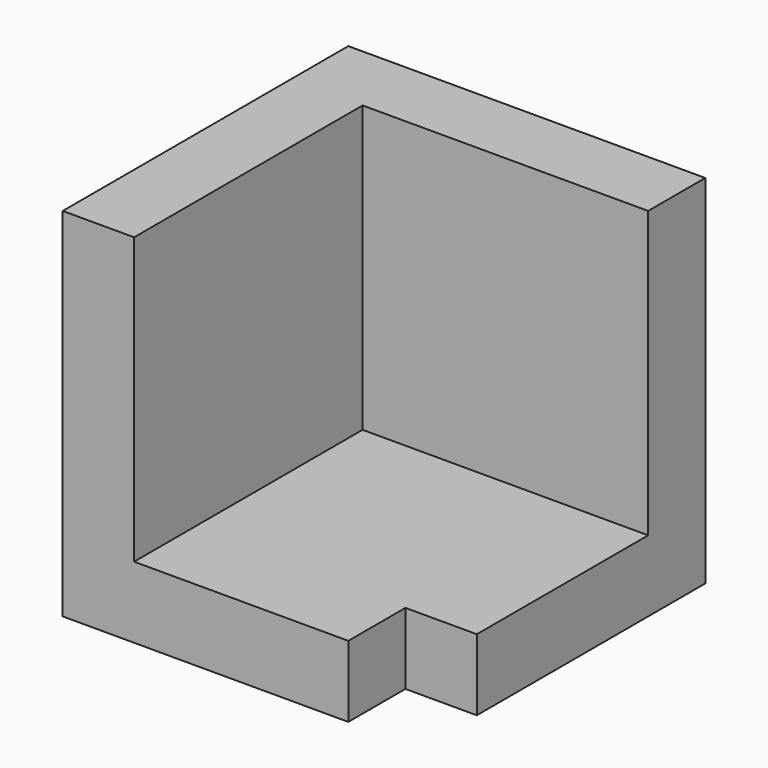
from build123d import *

# Parameters (mm, degrees)
F0_W     = 63.5
F0_H     = 63.5
F3_DEPTH = 12.7
F1_W     = 63.5
F1_H     = 63.5
F4_DEPTH = 12.7
F2_W     = 50.8
F2_H     = 50.8
F2_W_2   = 12.7
F2_H_2   = 12.7
F5_DEPTH = 12.7


with BuildPart() as f3:
    # F0 (on Front) → F3 (new body)
    with BuildSketch(Plane.XZ):
        with Locations((31.75, 31.75)):
            Rectangle(F0_W, F0_H)
    extrude(amount=F3_DEPTH)

    # F1 (on Right) → F4 (join)
    with BuildSketch(Plane.YZ):
        with Locations((-31.75, 31.75)):
            Rectangle(F1_W, F1_H)
    extrude(amount=F4_DEPTH)

    # F2 (on Top) → F5 (join)
    with BuildSketch(Plane.XY):
        with Locations((25.4, -25.4)):
            Rectangle(F2_W, F2_H)
        with Locations((57.15, -25.4)):
            Rectangle(F2_W_2, F2_H)
        with Locations((25.4, -57.15)):
            Rectangle(F2_W, F2_H_2)
    extrude(amount=F5_DEPTH)


solid = f3.part
